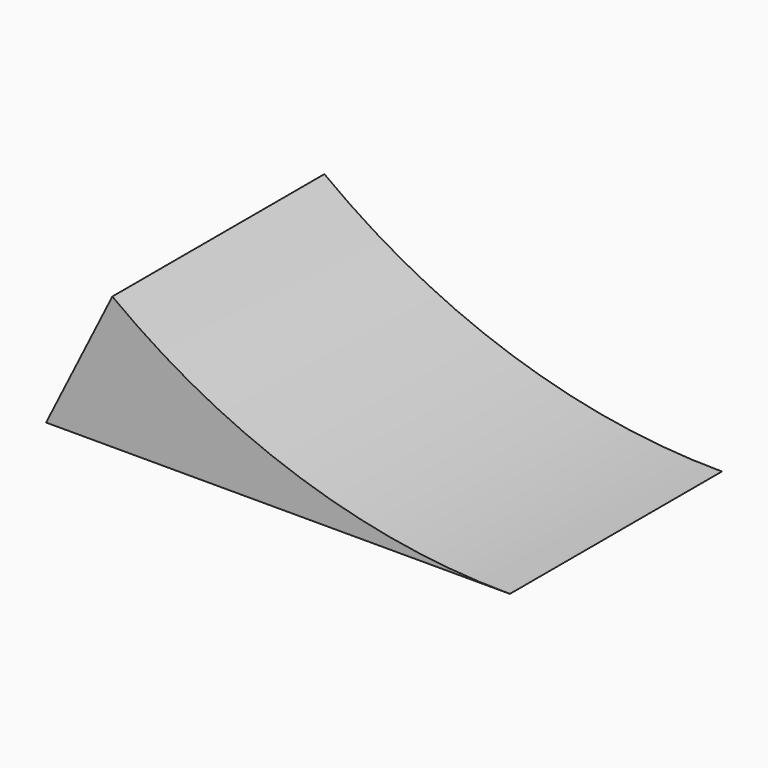
from build123d import *

# Parameters (mm, degrees)
F1_DEPTH = 304.8


with BuildPart() as f1:
    # F0 (on Front) → F1 (new body, symmetric)
    with BuildSketch(Plane.XZ):
        with BuildLine():
            ThreePointArc((533.4, -152.4), (51.4688845903, -74.193346229), (-381, 152.4))
            Line((-381, 152.4), (-533.4, -152.4))
            Line((-533.4, -152.4), (533.4, -152.4))
        make_face()
    extrude(amount=F1_DEPTH, both=True)


solid = f1.part
